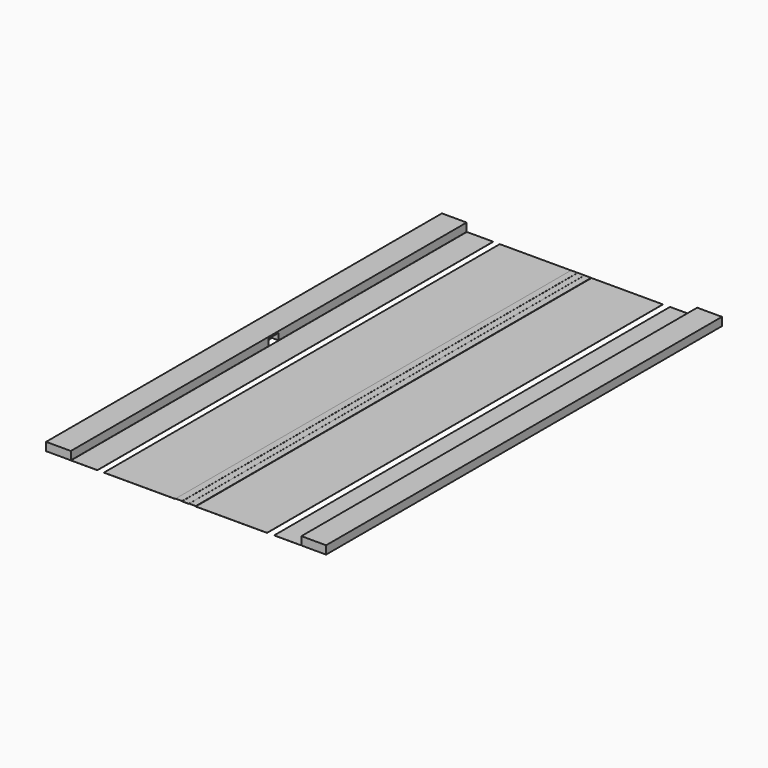
from build123d import *

# Parameters (mm, degrees)
F2_W      = 76.2
F2_H      = 1524
F3_DEPTH  = 25.4
F4_W      = 38.1
F4_H      = 20.32
F5_DEPTH  = 20.32
F6_W      = 38.1
F6_H      = 20.32
F7_DEPTH  = 20.32
F0_W      = 219.71
F0_H      = 1524
F8_DEPTH  = 0.254
F1_W      = 81.28
F1_H      = 1524
F9_DEPTH  = 0.254
F10_W     = 81.28
F10_H     = 1524
F11_DEPTH = 0.254
F12_W     = 20.32
F12_H     = 1522.59439733
F13_DEPTH = 0.254
F14_W     = 20.828
F14_H     = 1524
F15_DEPTH = 0.254


with BuildPart() as f3:
    # F2 (on Top) → F3 (new body)
    with BuildSketch(Plane.XY):
        with Locations((143.7694760919, -762)):
            Rectangle(F2_W, F2_H)
    extrude(amount=F3_DEPTH)

    # F6 (on face) → F7 (cut)
    with BuildSketch(Plane(origin=(105.6694760919, 0, 0), x_dir=(0, -1, 0), z_dir=(-1, 0, 0))):
        with Locations((781.05, 10.16)):
            Rectangle(F6_W, F6_H)
    extrude(amount=-F7_DEPTH, mode=Mode.SUBTRACT)


with BuildPart() as f3b:
    # F2 (on Top) → F3, piece 2 (new body)
    with BuildSketch(Plane.XY):
        with Locations((-642.599578476, -762)):
            Rectangle(F2_W, F2_H)
    extrude(amount=F3_DEPTH)

    # F4 (on face) → F5 (cut)
    with BuildSketch(Plane.YZ.offset(-604.499578476)):
        with Locations((-742.95, 10.16)):
            Rectangle(F4_W, F4_H)
    extrude(amount=-F5_DEPTH, mode=Mode.SUBTRACT)


with BuildPart() as f8:
    # F0 (on Top) → F8 (new body)
    with BuildSketch(Plane.XY):
        with Locations((-109.855, -762)):
            Rectangle(F0_W, F0_H)
    extrude(amount=-F8_DEPTH)


with BuildPart() as f8b:
    # F0 (on Top) → F8, piece 2 (new body)
    with BuildSketch(Plane.XY):
        with Locations((-392.5929627609, -762)):
            Rectangle(F0_W, F0_H)
    extrude(amount=-F8_DEPTH)


with BuildPart() as f9:
    # F1 (on Top) → F9 (new body)
    with BuildSketch(Plane.XY):
        with Locations((-563.3068715477, -762)):
            Rectangle(F1_W, F1_H)
    extrude(amount=-F9_DEPTH)


with BuildPart() as f11:
    # F10 (on Top) → F11 (new body)
    with BuildSketch(Plane.XY):
        with Locations((62.5596027889, -762)):
            Rectangle(F10_W, F10_H)
    extrude(amount=F11_DEPTH)


with BuildPart() as f13:
    # F12 (on Top) → F13 (new body)
    with BuildSketch(Plane.XY):
        with Locations((-272.5990045506, -761.297198665)):
            Rectangle(F12_W, F12_H)
    extrude(amount=F13_DEPTH)


with BuildPart() as f13b:
    # F12 (on Top) → F13, piece 2 (new body)
    with BuildSketch(Plane.XY):
        with Locations((-230.8922045506, -761.297198665)):
            Rectangle(F12_W, F12_H)
    extrude(amount=F13_DEPTH)


with BuildPart() as f15:
    # F14 (on Top) → F15 (new body)
    with BuildSketch(Plane.XY):
        with Locations((-251.6828285112, -762)):
            Rectangle(F14_W, F14_H)
    extrude(amount=F15_DEPTH)


solid = Compound([f3.part, f3b.part, f8.part, f8b.part, f9.part, f11.part, f13.part, f13b.part, f15.part])
